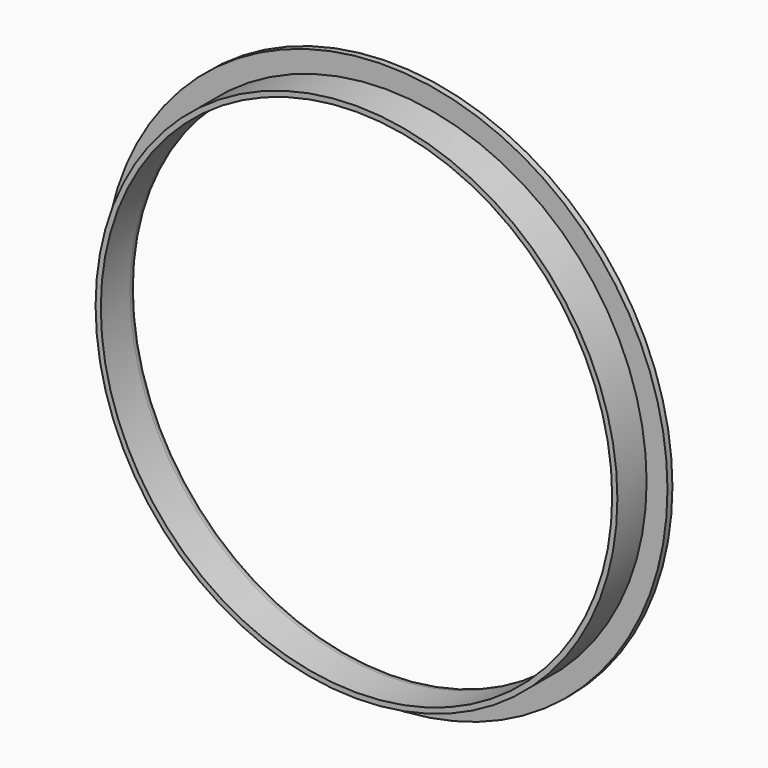
from build123d import *

# Parameters (mm, degrees)
F0_R     = 63.5
F0_R_2   = 62.23
F1_DEPTH = 8.89
F2_R     = 68.58
F2_R_2   = 62.23
F3_DEPTH = 1.5
F4_R     = 1


with BuildPart() as f1:
    # F0 (on Front) → F1 (new body)
    with BuildSketch(Plane.XZ):
        Circle(F0_R)
        Circle(F0_R_2, mode=Mode.SUBTRACT)
    extrude(amount=F1_DEPTH)


with BuildPart() as f3:
    # F2 (on Front) → F3 (new body)
    with BuildSketch(Plane.XZ):
        Circle(F2_R)
        Circle(F2_R_2, mode=Mode.SUBTRACT)
    extrude(amount=-F3_DEPTH)

    # F4
    f4_edges = [f3.edges().sort_by_distance(p)[0] for p in [
        (-62.23, 1.5, 0),
    ]]
    fillet(f4_edges, radius=F4_R)


solid = Compound([f1.part, f3.part])
